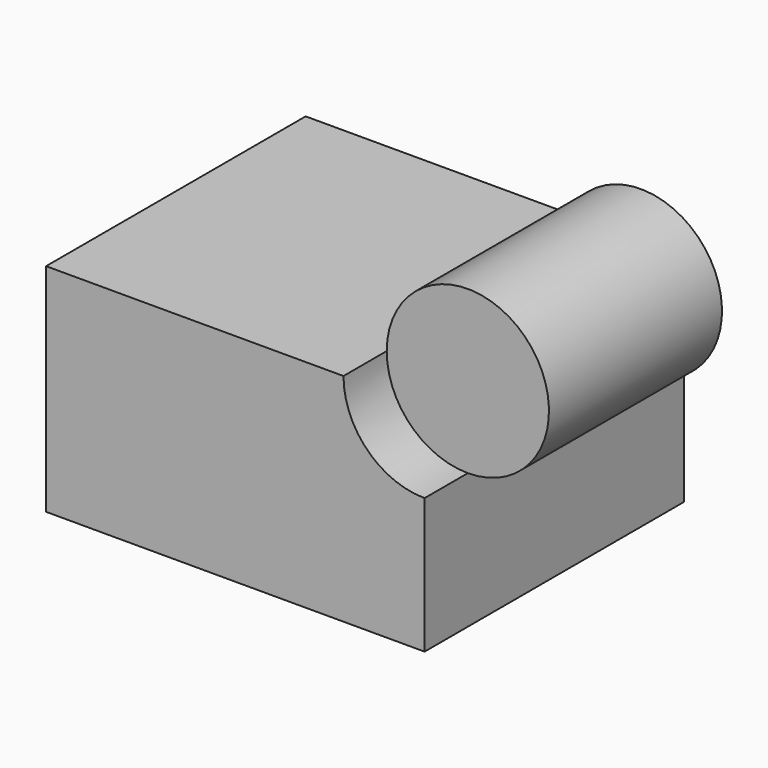
from build123d import *

# Parameters (mm, degrees)
F1_DEPTH = 10
F2_DEPTH = 40


with BuildPart() as f1:
    # F0 (on Front) → F1 (new body, symmetric)
    with BuildSketch(Plane.XZ):
        with BuildLine():
            ThreePointArc((35, 5), (24.3933982822, 9.3933982822), (20, 20))
            Line((20, 20), (-35, 20))
            Line((-35, 20), (-35, -20))
            Line((-35, -20), (35, -20))
            Line((35, -20), (35, 5))
        make_face()
    extrude(amount=F1_DEPTH, both=True)

    # F0 (on Front) + F1_face (on face) → F2 (join)
    with BuildSketch(Plane.XZ):
        with BuildLine():
            Line((35, 5), (35, 20))
            Line((35, 20), (20, 20))
            ThreePointArc((20, 20), (24.3933982822, 9.3933982822), (35, 5))
        make_face()
        with BuildLine():
            Line((20, 20), (35, 20))
            Line((35, 20), (35, 5))
            ThreePointArc((35, 5), (45.6066017178, 9.3933982822), (50, 20))
            ThreePointArc((50, 20), (35, 35), (20, 20))
        make_face()
        with BuildLine():
            ThreePointArc((35, 5), (24.3933982822, 9.3933982822), (20, 20))
            Line((20, 20), (-35, 20))
            Line((-35, 20), (-35, -20))
            Line((-35, -20), (35, -20))
            Line((35, -20), (35, 5))
        make_face()
    with BuildSketch(Plane(origin=(-1.9288829615, -10, -0.9184253163), x_dir=(1, 0, 0), z_dir=(0, -1, 0))):
        with BuildLine():
            ThreePointArc((36.9288829615, 5.9184253163), (26.3222812437, 10.3118235985), (21.9288829615, 20.9184253163))
            Line((21.9288829615, 20.9184253163), (-33.0711170385, 20.9184253163))
            Line((-33.0711170385, 20.9184253163), (-33.0711170385, -19.0815746837))
            Line((-33.0711170385, -19.0815746837), (36.9288829615, -19.0815746837))
            Line((36.9288829615, -19.0815746837), (36.9288829615, 5.9184253163))
        make_face()
    extrude(amount=F2_DEPTH)


solid = f1.part
